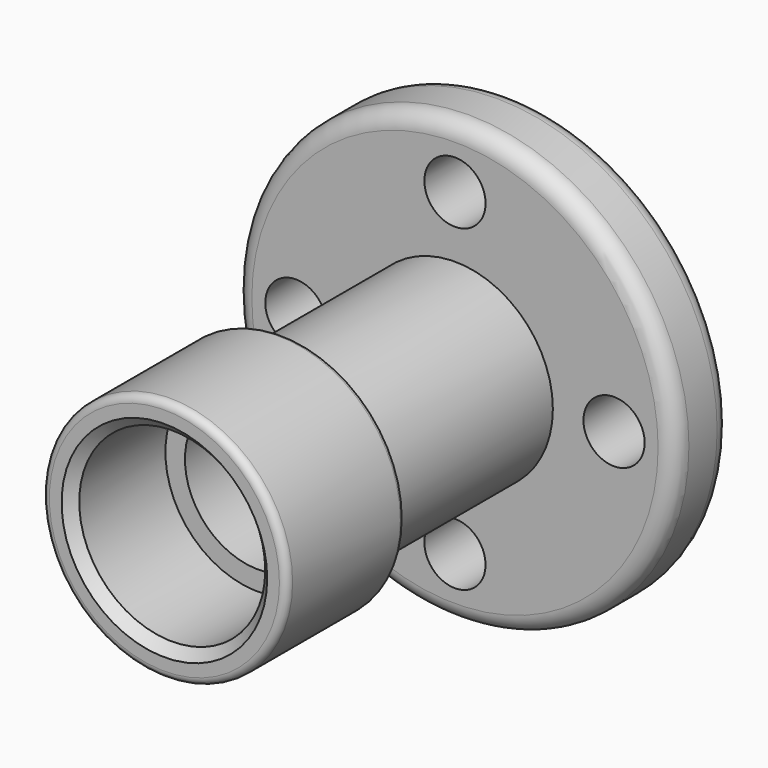
from build123d import *

# Parameters (mm, degrees)
SKETCH_R           = 45
PAD_DEPTH          = 14.2
SKETCH001_R        = 20
PAD001_DEPTH       = 44.2
SKETCH002_R        = 25
PAD002_DEPTH       = 30
SKETCH003_R        = 19
POCKET_DEPTH       = 24
SKETCH004_R        = 15
POCKET001_DEPTH    = 64.401
CHAMFER_SIZE       = 3.5
CHAMFER001_SIZE    = 2
FILLET_R           = 1.5
SKETCH005_R        = 6.25
POCKET002_DEPTH    = 324.133638
POLARPATTERN_COUNT = 4
FILLET001_R        = 3.5
FILLET002_R        = 1


with BuildPart() as part:
    # Sketch → Pad (new body)
    with BuildSketch(Plane.XZ):
        Circle(SKETCH_R)
    extrude(amount=PAD_DEPTH)

    # Sketch001 (on Face3 of Pad) → Pad001 (join)
    with BuildSketch(Plane.XZ.offset(14.2)):
        Circle(SKETCH001_R)
    extrude(amount=PAD001_DEPTH)

    # Sketch002 (on Face5 of Pad001) → Pad002 (join)
    with BuildSketch(Plane.XZ.offset(58.4)):
        Circle(SKETCH002_R)
    extrude(amount=PAD002_DEPTH)

    # Sketch003 (on Face3 of Pad002) → Pocket (cut)
    with BuildSketch(Plane.XZ.offset(88.4)):
        Circle(SKETCH003_R)
    extrude(amount=-POCKET_DEPTH, mode=Mode.SUBTRACT)

    # Sketch004 (on Face7 of Pocket) → Pocket001 (cut, through all)
    with BuildSketch(Plane.XZ.offset(64.4)):
        Circle(SKETCH004_R)
    extrude(amount=-POCKET001_DEPTH, mode=Mode.SUBTRACT)

    # Chamfer
    chamfer_edges = [part.edges().sort_by_distance(p)[0] for p in [
        (-15, 0, 0),
    ]]
    chamfer(chamfer_edges, length=CHAMFER_SIZE)

    # Chamfer001
    chamfer001_edges = [part.edges().sort_by_distance(p)[0] for p in [
        (-19, -88.4, 0),
    ]]
    chamfer(chamfer001_edges, length=CHAMFER001_SIZE)

    # Fillet
    fillet_edges = [part.edges().sort_by_distance(p)[0] for p in [
        (-25, -88.4, 0),
    ]]
    fillet(fillet_edges, radius=FILLET_R)

    # Sketch005 (on Face10 of Fillet) → Pocket002 (cut, through all)
    with BuildSketch(Plane.XZ.offset(14.2)):
        with Locations((0, 32.5)):
            Circle(SKETCH005_R)
    pocket002 = extrude(amount=-POCKET002_DEPTH, mode=Mode.SUBTRACT)

    # PolarPattern: Pocket002 ×4 about axis
    polarpattern_axis = Axis((0, -14.2, 0), (0, -1, 0))
    for i in range(1, POLARPATTERN_COUNT):
        add(pocket002.rotate(polarpattern_axis, i * 360 / POLARPATTERN_COUNT), mode=Mode.SUBTRACT)

    # Fillet001
    fillet001_edges = [part.edges().sort_by_distance(p)[0] for p in [
        (45, -7.1, 0),
        (-45, 0, 0),
        (-45, -14.2, 0),
    ]]
    fillet(fillet001_edges, radius=FILLET001_R)

    # Fillet002
    fillet002_edges = [part.edges().sort_by_distance(p)[0] for p in [
        (-25, -58.4, 0),
    ]]
    fillet(fillet002_edges, radius=FILLET002_R)


solid = part.part
